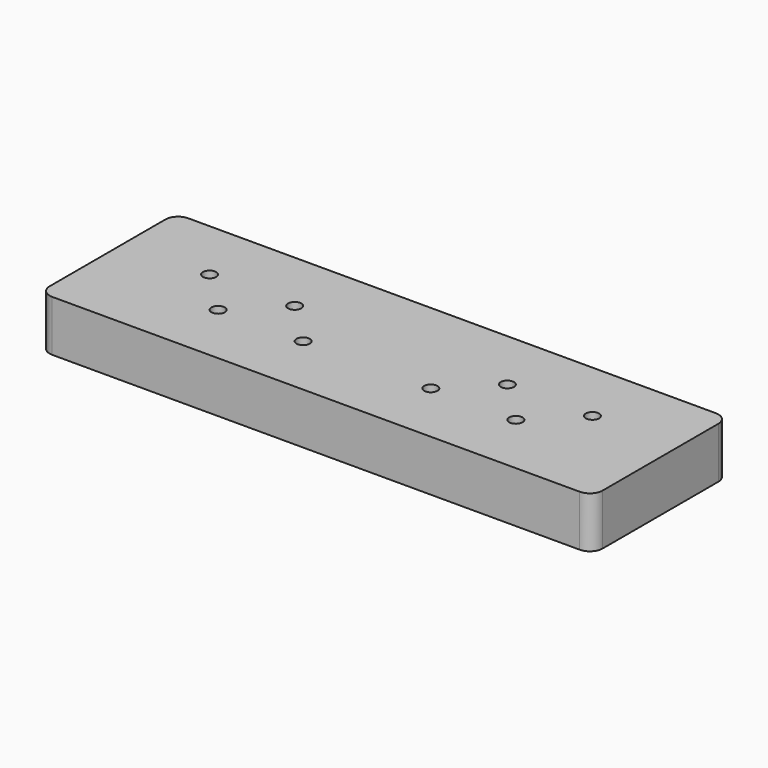
from build123d import *

# Parameters (mm, degrees)
SKETCH_W  = 130
SKETCH_H  = 40
SKETCH_R  = 1.5625
PAD_DEPTH = 12
FILLET_R  = 3


with BuildPart() as part:
    # Sketch → Pad (new body)
    with BuildSketch(Plane.XY):
        with Locations((65, 20)):
            Rectangle(SKETCH_W, SKETCH_H)
        with Locations((20, 25)):
            Circle(SKETCH_R, mode=Mode.SUBTRACT)
        with Locations((40, 25)):
            Circle(SKETCH_R, mode=Mode.SUBTRACT)
        with Locations((30, 15)):
            Circle(SKETCH_R, mode=Mode.SUBTRACT)
        with Locations((50, 15)):
            Circle(SKETCH_R, mode=Mode.SUBTRACT)
        with Locations((110, 25)):
            Circle(SKETCH_R, mode=Mode.SUBTRACT)
        with Locations((90, 25)):
            Circle(SKETCH_R, mode=Mode.SUBTRACT)
        with Locations((100, 15)):
            Circle(SKETCH_R, mode=Mode.SUBTRACT)
        with Locations((80, 15)):
            Circle(SKETCH_R, mode=Mode.SUBTRACT)
    extrude(amount=PAD_DEPTH)

    # Fillet
    fillet_edges = [part.edges().sort_by_distance(p)[0] for p in [
        (0, 0, 6),
        (130, 0, 6),
        (130, 40, 6),
        (0, 40, 6),
    ]]
    fillet(fillet_edges, radius=FILLET_R)


solid = part.part
